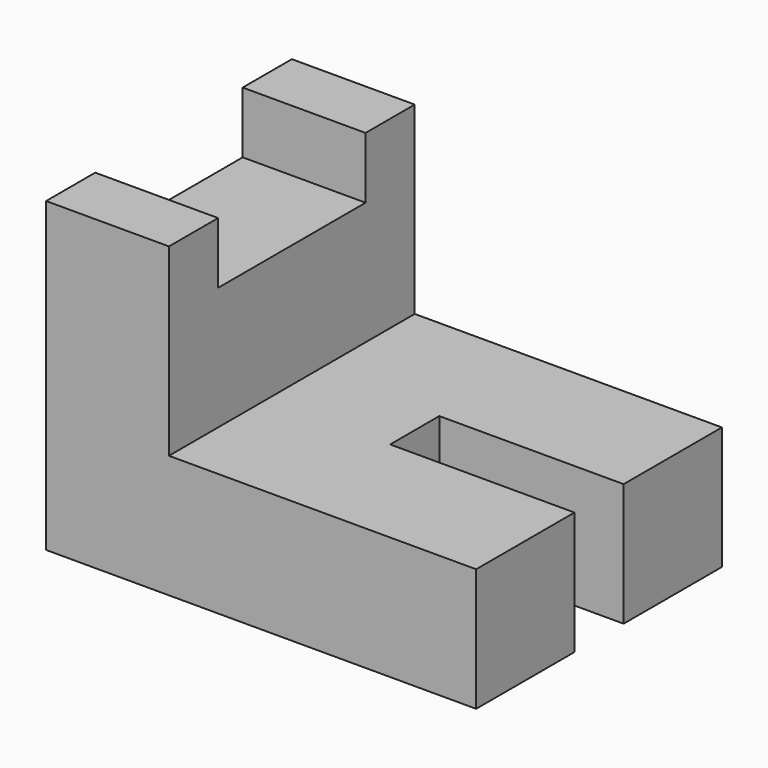
from build123d import *

# Parameters (mm, degrees)
F0_W     = 44.45
F0_H     = 31.75
F1_DEPTH = 31.75
F2_W     = 31.75
F2_H     = 19.05
F3_DEPTH = 31.751
F4_W     = 6.35
F4_H     = 12.7
F5_DEPTH = 19.05
F6_W     = 12.7
F6_H     = 19.05
F7_DEPTH = 6.35


with BuildPart() as f1:
    # F0 (on Top) → F1 (new body)
    with BuildSketch(Plane.XY):
        with Locations((22.225, 15.875)):
            Rectangle(F0_W, F0_H)
    extrude(amount=F1_DEPTH)

    # F2 (on face) → F3 (cut, through all)
    with BuildSketch(Plane.XZ):
        with Locations((28.575, 22.225)):
            Rectangle(F2_W, F2_H)
    extrude(amount=-F3_DEPTH, mode=Mode.SUBTRACT)

    # F4 (on face) → F5 (cut)
    with BuildSketch(Plane.YZ.offset(44.45)):
        with Locations((15.875, 6.35)):
            Rectangle(F4_W, F4_H)
    extrude(amount=-F5_DEPTH, mode=Mode.SUBTRACT)

    # F6 (on face) → F7 (cut)
    with BuildSketch(Plane.XY.offset(31.75)):
        with Locations((6.35, 15.875)):
            Rectangle(F6_W, F6_H)
    extrude(amount=-F7_DEPTH, mode=Mode.SUBTRACT)


solid = f1.part
